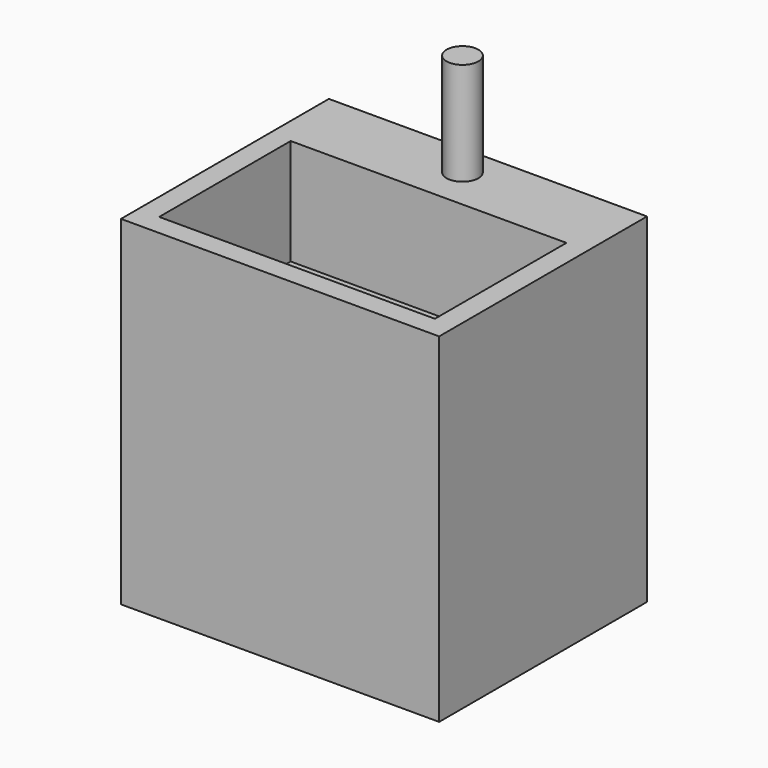
from build123d import *

# Parameters (mm, degrees)
F0_W     = 600
F0_H     = 490
F1_DEPTH = 640
F2_W     = 520
F2_H     = 310
F3_DEPTH = 200
F4_R     = 30
F5_DEPTH = 194


with BuildPart() as f1:
    # F0 (on Top) → F1 (new body)
    with BuildSketch(Plane.XY):
        with Locations((5.897177, 71.033585)):
            Rectangle(F0_W, F0_H)
    extrude(amount=F1_DEPTH)

    # F2 (on face) → F3 (cut)
    with BuildSketch(Plane.XY.offset(640)):
        with Locations((5.897177, 21.033585)):
            Rectangle(F2_W, F2_H)
    extrude(amount=-F3_DEPTH, mode=Mode.SUBTRACT)

    # F4 (on face) → F5 (join)
    with BuildSketch(Plane.XY.offset(640)):
        with Locations((5.897177, 256.033585)):
            Circle(F4_R)
    extrude(amount=F5_DEPTH)


solid = f1.part
